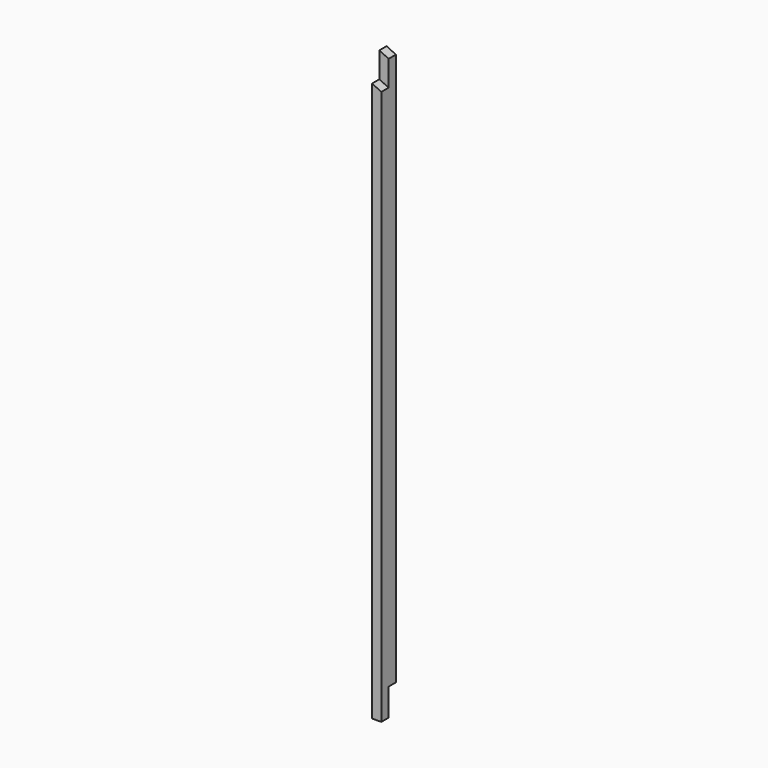
from build123d import *

# Parameters (mm, degrees)
F0_W          = 50
F0_H          = 100
F1_DEPTH      = 3207.5
F2_W          = 50
F2_H          = 150
F3_DEPTH      = 25
F3_DEPTH_BACK = 25
F5_DEPTH      = 100
F7_DEPTH      = 50


with BuildPart() as f1:
    # F0 (on Top) → F1 (new body)
    with BuildSketch(Plane.XY):
        Rectangle(F0_W, F0_H)
    extrude(amount=F1_DEPTH)

    # F2 (on Right) → F3 (cut, two sides)
    with BuildSketch(Plane.YZ) as f3_sk:
        with Locations((25, 75)):
            Rectangle(F2_W, F2_H)
    extrude(amount=-F3_DEPTH, mode=Mode.SUBTRACT)
    extrude(f3_sk.sketch, amount=F3_DEPTH_BACK, mode=Mode.SUBTRACT)

    # F4 (on face) → F5 (cut, through all)
    with BuildSketch(Plane.XZ.offset(50)):
        Polygon((25, 3207.5), (-25, 3207.5), (25, 3182.5), align=None)
    extrude(amount=-F5_DEPTH, mode=Mode.SUBTRACT)

    # F6 (on face) → F7 (cut)
    with BuildSketch(Plane.XZ.offset(50)):
        Polygon((25, 3182.5), (-25, 3207.5), (-25, 3067.7457514063), (25, 3042.7457514063), align=None)
    extrude(amount=-F7_DEPTH, mode=Mode.SUBTRACT)


solid = f1.part
